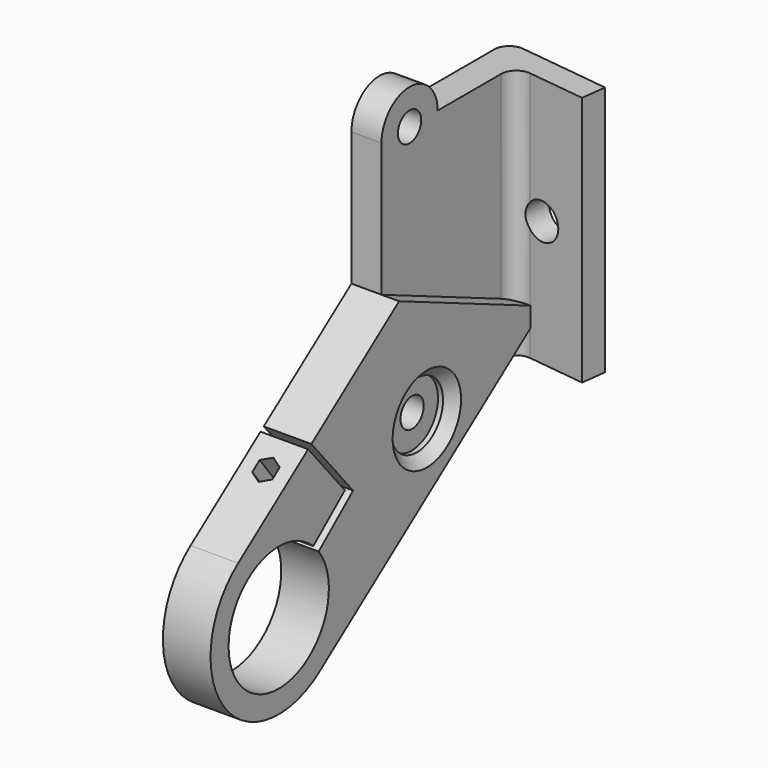
from build123d import *

# Parameters (mm, degrees)
PAD_DEPTH       = 25
FILLET_R        = 3
SKETCH009_R     = 7
PAD001_DEPTH    = 6
SKETCH_R        = 12.5
PAD002_DEPTH    = 9.5
POCKET_DEPTH    = 21.498539
SKETCH003_R     = 2.9
POCKET001_DEPTH = 21.498539
POCKET002_DEPTH = 16
POCKET003_DEPTH = 27
SKETCH008_R     = 3.6
POCKET004_DEPTH = 10
SKETCH017_R     = 6.528292
POCKET005_DEPTH = 3
CHAMFER_SIZE    = 2


with BuildPart() as part:
    # Sketch007 → Pad (new body, symmetric)
    with BuildSketch(Plane.XY):
        Polygon((0, 0), (6, 0), (6, 33.225744), (20.888192, 31.397703), (21.497539, 36.360434), (0, 39), align=None)
    extrude(amount=PAD_DEPTH, both=True)

    # Fillet
    fillet_edges = [part.edges().sort_by_distance(p)[0] for p in [
        (0, 39, 0),
        (6, 33.225744, 0),
    ]]
    fillet(fillet_edges, radius=FILLET_R)

    # Sketch009 (on Face7 of Fillet) → Pad001 (join)
    with BuildSketch(Plane(origin=(0, 0, 0), x_dir=(0, -1, 0), z_dir=(-1, 0, 0))):
        with Locations((-7, 25)):
            Circle(SKETCH009_R)
    extrude(amount=-PAD001_DEPTH)

    # Sketch → Pad002 (join)
    with BuildSketch(Plane(origin=(0, 0, 0), x_dir=(0, -1, 0), z_dir=(-1, 0, 0))):
        with BuildLine():
            Line((40.112649, -31.334923), (0, -1.650119))
            Line((0, -1.650119), (-36.144043, -17.199829))
            Line((19.887351, -58.665077), (-36.144043, -17.199829))
            ThreePointArc((19.887351, -58.665077), (43.665077, -55.112649), (40.112649, -31.334923))
        make_face()
        with Locations((30, -45)):
            Circle(SKETCH_R, mode=Mode.SUBTRACT)
    extrude(amount=-PAD002_DEPTH)

    # Sketch013 → Pocket (cut, through all)
    with BuildSketch(Plane(origin=(0, 0, 0), x_dir=(0, -1, 0), z_dir=(-1, 0, 0))):
        Polygon((22.699889, -37.062297), (13.507356, -29.348846), (26.630219, -13.709626), (25.864174, -13.066839), (11.455736, -30.238147), (21.414314, -38.594386), align=None)
    extrude(amount=-POCKET_DEPTH, mode=Mode.SUBTRACT)

    # Sketch003 (on Face19 of Pad002) → Pocket001 (cut, through all)
    with BuildSketch(Plane(origin=(0, 0, 0), x_dir=(0, -1, 0), z_dir=(-1, 0, 0))):
        with Locations((-7, -25)):
            Circle(SKETCH003_R)
        with Locations((-7, 25)):
            Circle(SKETCH003_R)
    extrude(amount=-POCKET001_DEPTH, mode=Mode.SUBTRACT)

    # Sketch015 → Pocket002 (cut)
    with BuildSketch(Plane(origin=(0, 0.311228, -0.406819), x_dir=(1, 0, 0), z_dir=(0, -0.607611, 0.794235))):
        Polygon((4.690891, -37.115485), (6.690891, -35.960785), (6.690891, -33.651383), (4.690891, -32.496683), (2.690891, -33.651383), (2.690891, -35.960785), align=None)
    extrude(amount=-POCKET002_DEPTH, mode=Mode.SUBTRACT)

    # Sketch014 → Pocket003 (cut)
    with BuildSketch(Plane(origin=(0, 0.311228, -0.406819), x_dir=(1, 0, 0), z_dir=(0, -0.607611, 0.794235))):
        Polygon((6.15, -35.644522), (6.15, -34.027942), (4.75, -33.219651), (3.35, -34.027942), (3.35, -35.644522), (4.75, -36.452813), align=None)
    extrude(amount=-POCKET003_DEPTH, mode=Mode.SUBTRACT)

    # Sketch008 (on Face11 of Pocket003) → Pocket004 (cut)
    with BuildSketch(Plane(origin=(4.717477, 38.420767, 0), x_dir=(-0.992546, 0.121869, 0), z_dir=(0.121869, 0.992546, 0))):
        with Locations((-8, 0)):
            Circle(SKETCH008_R)
    extrude(amount=-POCKET004_DEPTH, mode=Mode.SUBTRACT)

    # Sketch017 (on Face7 of Pocket004) → Pocket005 (cut)
    with BuildSketch(Plane.YZ.offset(9.5)):
        with Locations((6.933498, -25.139439)):
            Circle(SKETCH017_R)
    extrude(amount=-POCKET005_DEPTH, mode=Mode.SUBTRACT)

    # Chamfer
    chamfer_edges = [part.edges().sort_by_distance(p)[0] for p in [
        (9.5, 0.405206, -25.139439),
    ]]
    chamfer(chamfer_edges, length=CHAMFER_SIZE)


solid = part.part
